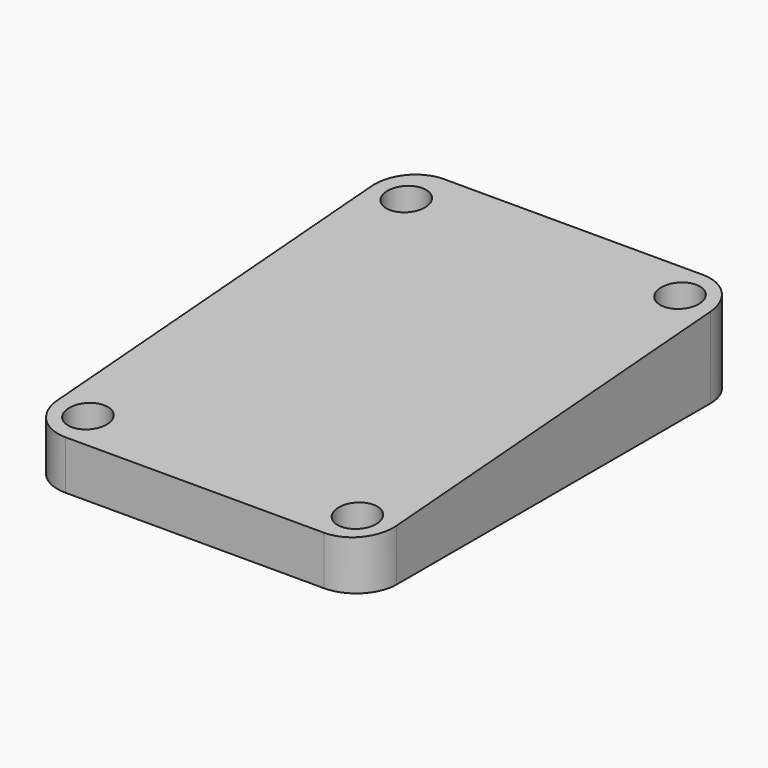
from build123d import *

# Parameters (mm, degrees)
F1_DEPTH = 27.7749
F2_R     = 6.604
F4_D     = 6.604


with BuildPart() as f1:
    # F0 (on Right) → F1 (new body, symmetric)
    with BuildSketch(Plane.YZ):
        Polygon((77.47, 13.716), (0, 8.001), (0, 0), (77.47, 0), align=None)
    extrude(amount=F1_DEPTH, both=True)

    # F2
    f2_edges = [f1.edges().sort_by_distance(p)[0] for p in [
        (27.7749, 0, 4.0005),
        (27.7749, 77.47, 6.858),
        (-27.7749, 77.47, 6.858),
        (-27.7749, 0, 4.0005),
    ]]
    fillet(f2_edges, radius=F2_R)

    # F4 (through all)
    with Locations(Plane(origin=(0, 0, 0), x_dir=(1, 0, 0), z_dir=(0, 0, -1))):
        with Locations((22.0599, -5.715), (-22.0599, -5.715), (22.0599, -71.755), (-22.0599, -70.866)):
            Hole(F4_D / 2)


solid = f1.part
